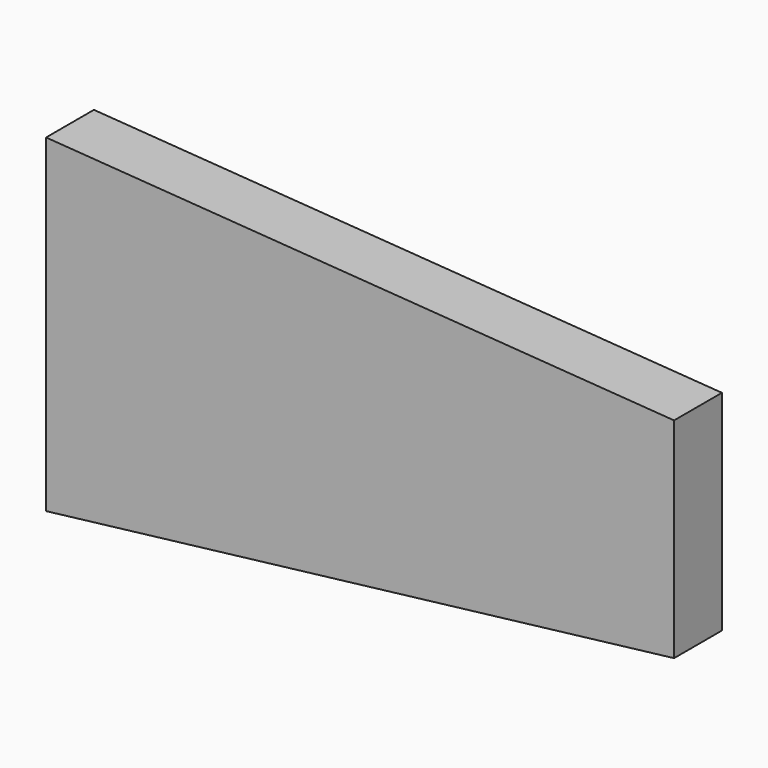
from build123d import *

# Parameters (mm, degrees)
F1_DEPTH = 25.4


with BuildPart() as f1:
    # F0 (on Front) → F1 (new body)
    with BuildSketch(Plane.XZ):
        with BuildLine():
            Line((133.35, 50.8), (-133.35, 69.85))
            Line((-133.35, 69.85), (-133.35, -69.85))
            Line((-133.35, -69.85), (133.35, -38.1))
            add(Edge.make_bspline(
                [(133.35, 50.8), (133.35, 21.166667), (133.35, -8.466667), (133.35, -38.1)],
                knots=[0, 0, 0, 0, 88.9, 88.9, 88.9, 88.9], degree=3))
        make_face()
    extrude(amount=F1_DEPTH)


solid = f1.part
